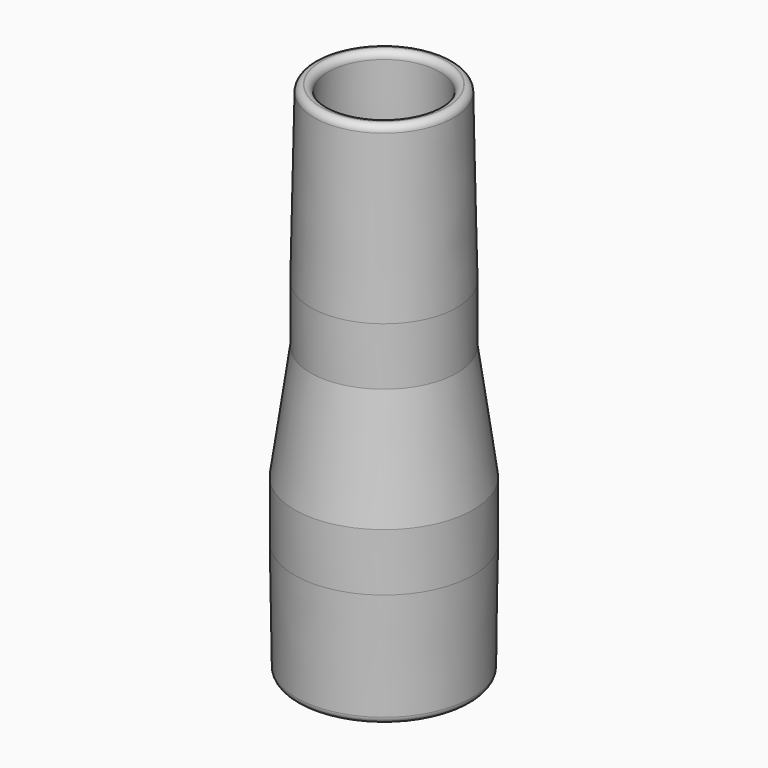
from build123d import *

# Parameters (mm, degrees)
F2_R = 1.524


with BuildPart() as f1:
    # F0 (on Front) → F1 (revolve)
    with BuildSketch(Plane.XZ):
        Polygon((-19.685, 25.4), (-19.304, 0), (-16.128643, 0), (-16.51, 25.423811), (-16.51, 37.878828), (-12.954, 63.278828), (-12.954, 76.168253), (-12.191365, 114.3), (-15.367, 114.3), (-16.129, 76.2), (-16.129, 63.5), (-19.685, 38.1), align=None)
    revolve(axis=Axis((0, 0, 60.50895), (0, 0, 1)))

    # F2
    f2_edges = [f1.edges().sort_by_distance(p)[0] for p in [
        (15.367, 0, 114.3),
        (12.191365, 0, 114.3),
        (19.304, 0, 0),
        (16.128643, 0, 0),
    ]]
    fillet(f2_edges, radius=F2_R)


solid = f1.part
